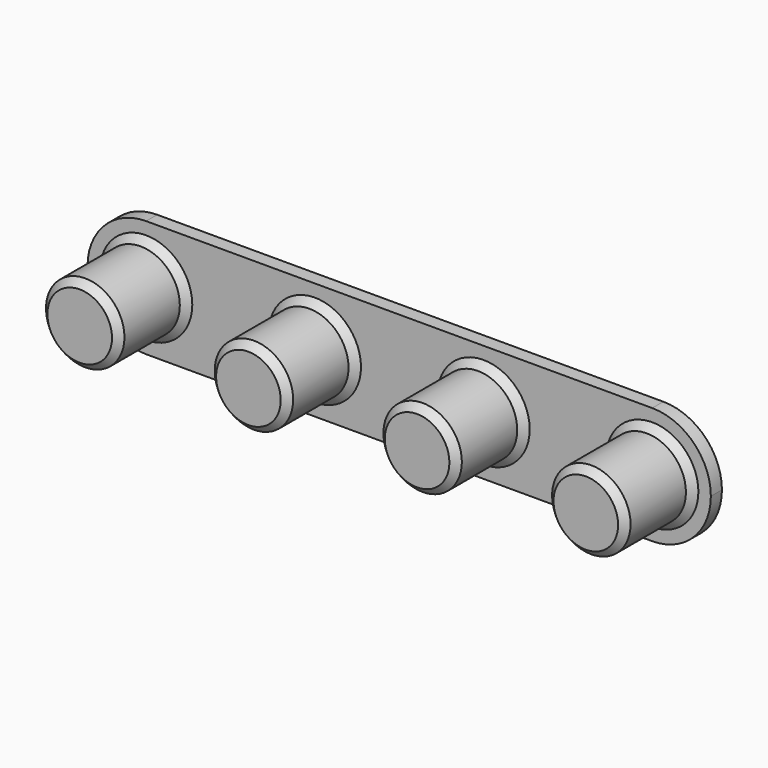
from build123d import *

# Parameters (mm, degrees)
F1_DEPTH = 3
F2_R     = 8.5
F3_DEPTH = 18
F4_SIZE  = 1.5


with BuildPart() as f1:
    # F0 (on Front) → F1 (new body)
    with BuildSketch(Plane.XZ):
        with BuildLine():
            Line((54.84, 12.7), (-54.84, 12.7))
            ThreePointArc((-54.84, 12.7), (-63.820256, 8.980256), (-67.54, 0))
            ThreePointArc((-67.54, 0), (-63.820256, -8.980256), (-54.84, -12.7))
            Line((-54.84, -12.7), (54.84, -12.7))
            ThreePointArc((54.84, -12.7), (63.820256, -8.980256), (67.54, 0))
            ThreePointArc((67.54, 0), (63.820256, 8.980256), (54.84, 12.7))
        make_face()
    extrude(amount=F1_DEPTH)

    # F2 (on face) → F3 (join)
    with BuildSketch(Plane.XZ.offset(3)):
        with Locations((-54.84, 0)):
            Circle(F2_R)
        with Locations((54.84, 0)):
            Circle(F2_R)
        with Locations((-18.28, 0)):
            Circle(F2_R)
        with Locations((18.28, 0)):
            Circle(F2_R)
    extrude(amount=F3_DEPTH)

    # F4
    f4_edges = [f1.edges().sort_by_distance(p)[0] for p in [
        (-63.34, -21, 0),
        (-26.78, -21, 0),
        (9.78, -21, 0),
        (46.34, -21, 0),
        (-26.78, -3, 0),
        (-63.34, -3, 0),
        (9.78, -3, 0),
        (46.34, -3, 0),
    ]]
    chamfer(f4_edges, length=F4_SIZE)


solid = f1.part
